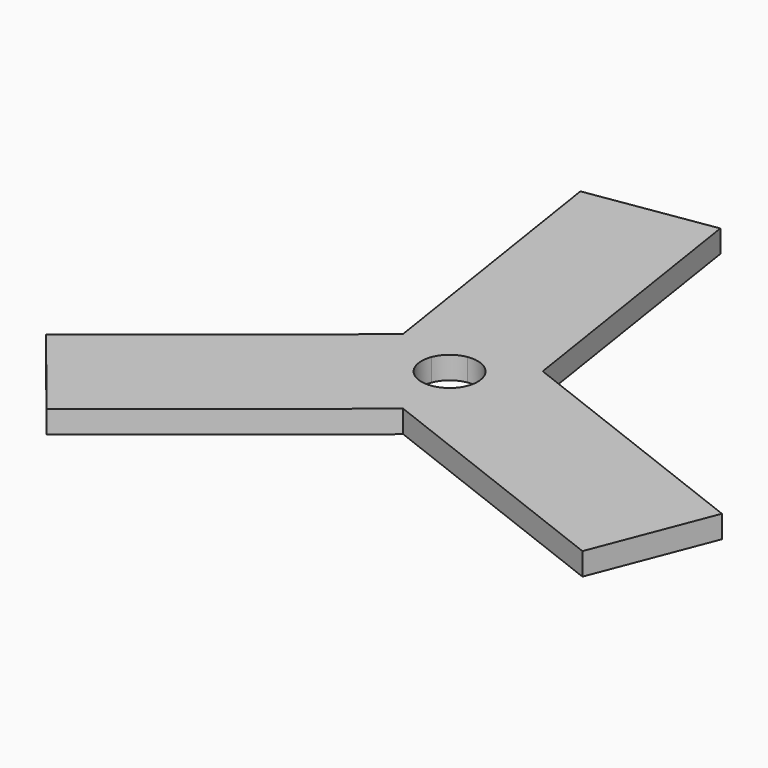
from build123d import *

# Parameters (mm, degrees)
F1_DEPTH = 5


with BuildPart() as f1:
    # F0 (on Top) → F1 (new body)
    with BuildSketch(Plane.XY):
        with BuildLine():
            Line((-4.36566, 79.626773), (-32.035204, 75.337673))
            Line((-32.035204, 75.337673), (-22.550609, 14.151324))
            Line((-22.550609, 14.151324), (-13.305154, 10.567361))
            ThreePointArc((-13.305154, 10.567361), (-11.394923, 13.178449), (-8.43507, 14.484602))
            ThreePointArc((-8.43507, 14.484602), (-3.410814, 13.054214), (-1.227681, 8.308365))
            ThreePointArc((-1.227681, 8.308365), (-1.334221, 7.159279), (-1.650209, 6.049369))
            ThreePointArc((-1.650209, 6.049369), (-3.56044, 3.438281), (-6.520293, 2.132127))
            Line((-6.520293, 2.132127), (-5.001368, -7.666653))
            Line((-5.001368, -7.666653), (52.729861, -30.045928))
            Line((52.729861, -30.045928), (62.850163, -3.938851))
            Line((62.850163, -3.938851), (5.118934, 18.440424))
            Line((5.118934, 18.440424), (-4.36566, 79.626773))
        make_face()
        with BuildLine():
            Line((-13.305154, 10.567361), (-22.550609, 14.151324))
            Line((-22.550609, 14.151324), (-70.797245, -24.65575))
            Line((-70.797245, -24.65575), (-53.248003, -46.473727))
            Line((-53.248003, -46.473727), (-5.001368, -7.666653))
            Line((-5.001368, -7.666653), (-6.520293, 2.132127))
            ThreePointArc((-6.520293, 2.132127), (-12.347765, 4.391123), (-13.305154, 10.567361))
        make_face()
    extrude(amount=F1_DEPTH)


solid = f1.part
